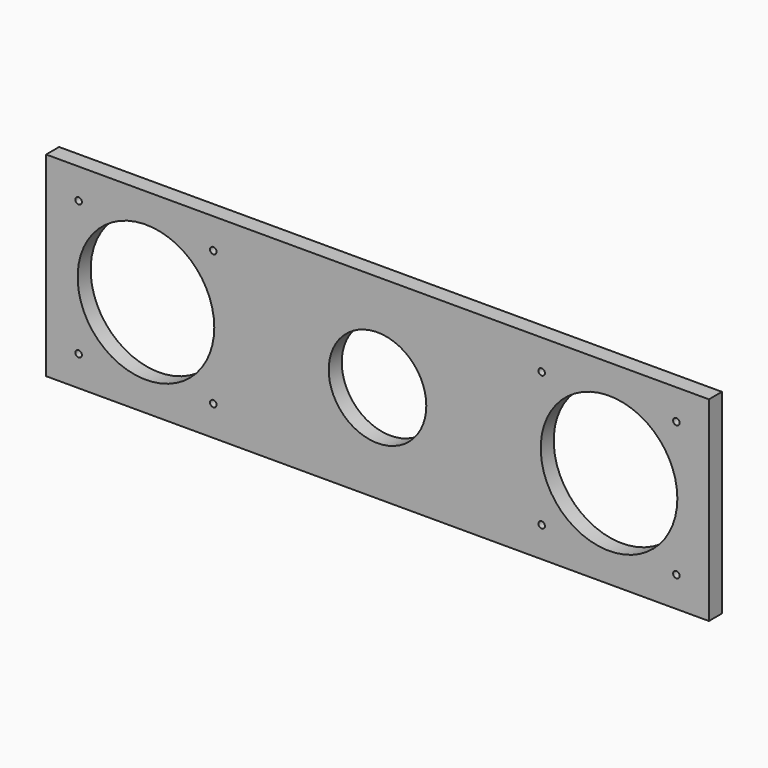
from build123d import *

# Parameters (mm, degrees)
F0_W     = 517.525
F0_H     = 152.4
F0_R     = 2.54
F0_R_2   = 53.34
F0_R_3   = 38.1
F1_DEPTH = 12.7


with BuildPart() as f1:
    # F0 (on Front) → F1 (new body)
    with BuildSketch(Plane.XZ):
        with Locations((258.7625, 76.2)):
            Rectangle(F0_W, F0_H)
        with Locations((25.4, 23.622)):
            Circle(F0_R, mode=Mode.SUBTRACT)
        with Locations((130.556637, 23.622)):
            Circle(F0_R, mode=Mode.SUBTRACT)
        with Locations((386.969, 23.622)):
            Circle(F0_R, mode=Mode.SUBTRACT)
        with Locations((492.125, 23.622)):
            Circle(F0_R, mode=Mode.SUBTRACT)
        with Locations((77.978, 76.2)):
            Circle(F0_R_2, mode=Mode.SUBTRACT)
        with Locations((25.4, 128.778)):
            Circle(F0_R, mode=Mode.SUBTRACT)
        with Locations((130.556637, 128.778)):
            Circle(F0_R, mode=Mode.SUBTRACT)
        with Locations((258.7625, 76.2)):
            Circle(F0_R_3, mode=Mode.SUBTRACT)
        with Locations((439.547, 76.2)):
            Circle(F0_R_2, mode=Mode.SUBTRACT)
        with Locations((386.969, 128.778)):
            Circle(F0_R, mode=Mode.SUBTRACT)
        with Locations((492.125, 128.778)):
            Circle(F0_R, mode=Mode.SUBTRACT)
    extrude(amount=F1_DEPTH)


solid = f1.part
